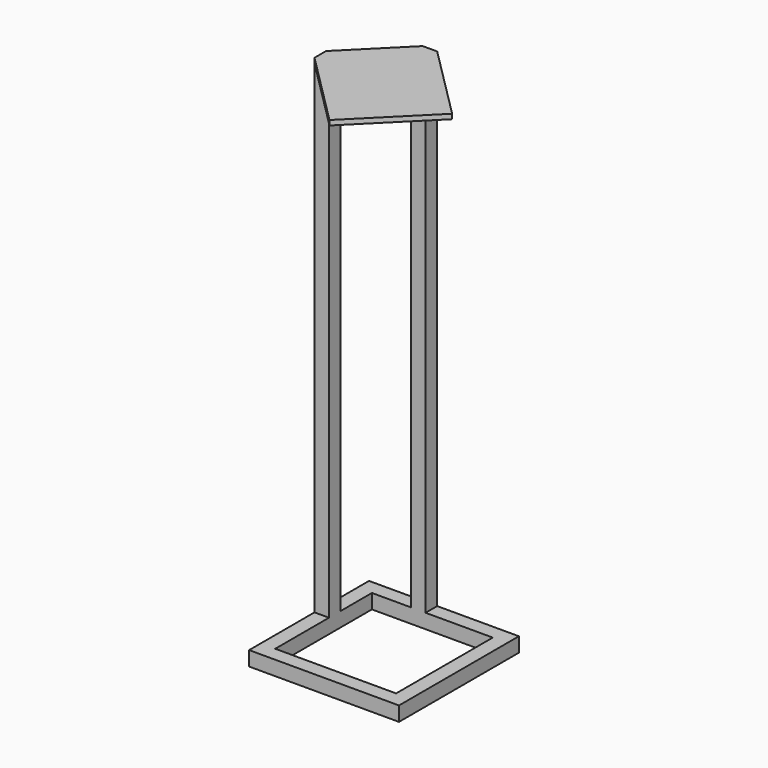
from build123d import *

# Parameters (mm, degrees)
F0_W     = 310
F0_H     = 310
F0_W_2   = 250
F0_H_2   = 250
F1_DEPTH = 30
F2_W     = 30
F2_H     = 30
F3_DEPTH = 1000
F5_DEPTH = 10


with BuildPart() as f1:
    # F0 (on Top) → F1 (new body)
    with BuildSketch(Plane.XY):
        Rectangle(F0_W, F0_H)
        Rectangle(F0_W_2, F0_H_2, mode=Mode.SUBTRACT)
    extrude(amount=F1_DEPTH)

    # F2 (on face) → F3 (join)
    with BuildSketch(Plane.XY.offset(30)):
        with Locations((-29, 140)):
            Rectangle(F2_W, F2_H)
        with Locations((-140, 29)):
            Rectangle(F2_W, F2_H)
    extrude(amount=F3_DEPTH)


with BuildPart() as f5:
    # F4 (on face) → F5 (new body)
    with BuildSketch(Plane.XY.offset(1030)):
        Polygon((-43.9997917029, 155.0002082971), (-155, 44), (-155, 14), (0.0002082971, -141.0002082971), (141.0004165942, 0), (-13.9997917029, 155.0002082971), align=None)
    extrude(amount=F5_DEPTH)


solid = Compound([f1.part, f5.part])
